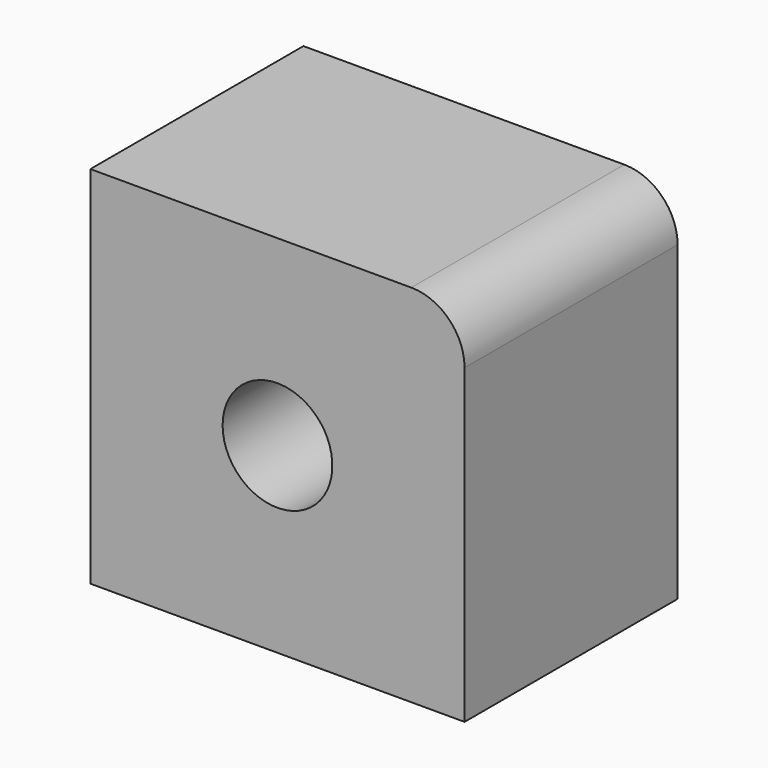
from build123d import *

# Parameters (mm, degrees)
F0_W     = 35.12583673
F0_H     = 34.2667922378
F1_DEPTH = 25
F2_R     = 5
F3_D     = 10.3


with BuildPart() as f1:
    # F0 (on Front) → F1 (new body)
    with BuildSketch(Plane.XZ):
        Rectangle(F0_W, F0_H)
    extrude(amount=F1_DEPTH)

    # F2
    f2_edges = [f1.edges().sort_by_distance(p)[0] for p in [
        (17.562918, -12.5, 17.133396),
    ]]
    fillet(f2_edges, radius=F2_R)

    # F3 (through all)
    with Locations(Plane(origin=(0, 0, 0), x_dir=(1, 0, 0), z_dir=(0, 1, 0))):
        with Locations((0, 0)):
            Hole(F3_D / 2)


solid = f1.part
